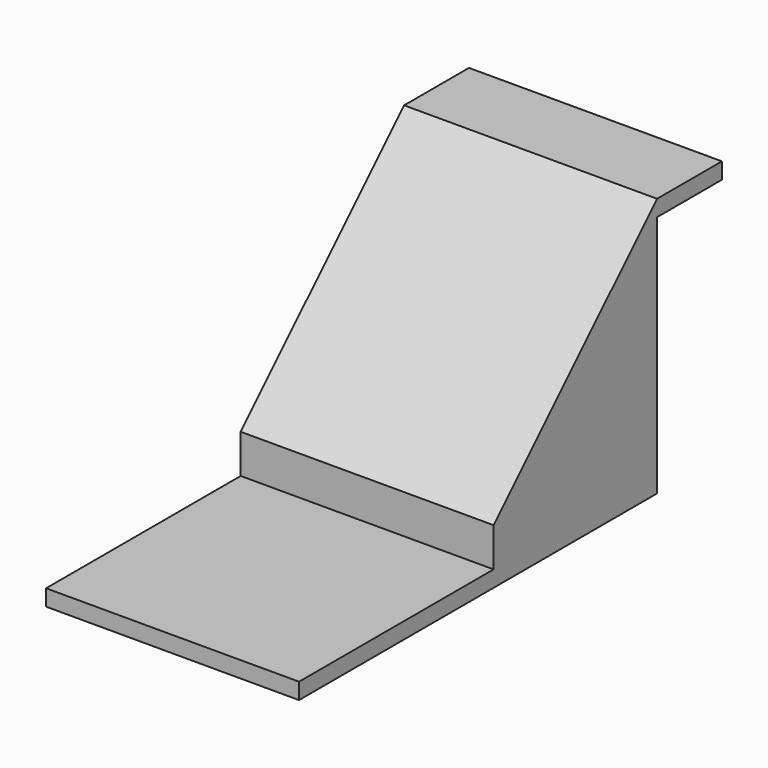
from build123d import *

# Parameters (mm, degrees)
EXTRUDE_DEPTH = 15.6


with BuildPart() as part:
    # Sketch → Extrude (new body)
    with BuildSketch(Plane.YZ):
        Polygon((0, 0), (15, 0), (15, 2.4), (27.6, 15), (32.6, 15), (32.6, 14), (27.6, 14), (27.6, -1), (0, -1), align=None)
    extrude(amount=EXTRUDE_DEPTH)


solid = part.part
